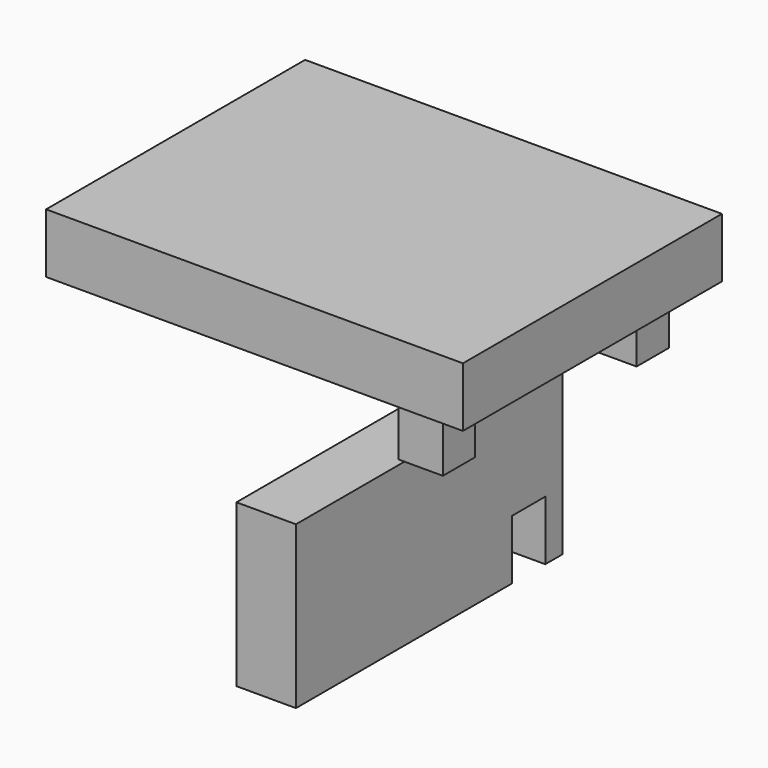
from build123d import *

# Parameters (mm, degrees)
F0_W     = 88.931978
F0_H     = 69.073383
F1_DEPTH = 12.7
F2_W     = 9.498369
F2_H     = 8.634174
F2_W_2   = 9.210534
F2_H_2   = 8.634172
F3_DEPTH = 12.7
F4_W     = 71.088024
F4_H     = 34.536689
F5_DEPTH = 12.7
F6_W     = 10.661837
F6_H     = 9.209784
F6_W_2   = 11.694036
F6_H_2   = 8.925818
F7_DEPTH = 12.7


with BuildPart() as f1:
    # F0 (on Top) → F1 (new body)
    with BuildSketch(Plane.XY):
        with Locations((4.317086, -4.173183)):
            Rectangle(F0_W, F0_H)
    extrude(amount=F1_DEPTH)

    # F2 (on face) → F3 (join)
    with BuildSketch(Plane(origin=(0, 0, 0), x_dir=(1, 0, 0), z_dir=(0, 0, -1))):
        with Locations((36.30303, 30.075702)):
            Rectangle(F2_W, F2_H)
        with Locations((37.022602, -20.865917)):
            Rectangle(F2_W_2, F2_H_2)
    extrude(amount=F3_DEPTH)


with BuildPart() as f5:
    # F4 (on Right) → F5 (new body)
    with BuildSketch(Plane.YZ):
        with Locations((-2.59025, -46.768434)):
            Rectangle(F4_W, F4_H)
    extrude(amount=F5_DEPTH)

    # F6 (on face) → F7 (cut)
    with BuildSketch(Plane(origin=(0, 0, -64.036779), x_dir=(1, 0, 0), z_dir=(0, 0, -1))):
        with Locations((6.049875, 29.212284)):
            Rectangle(F6_W, F6_H)
        with Locations((6.852982, -23.889797)):
            Rectangle(F6_W_2, F6_H_2)
    extrude(amount=-F7_DEPTH, mode=Mode.SUBTRACT)


solid = Compound([f1.part, f5.part])
